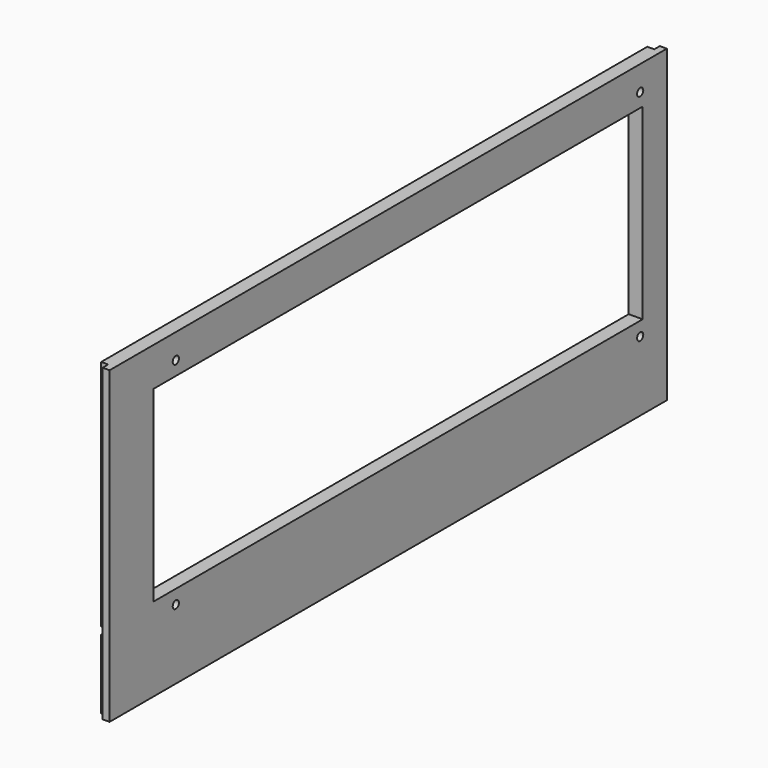
from build123d import *

# Parameters (mm, degrees)
F0_W      = 450
F0_H      = 200
F1_DEPTH  = 9
F2_W      = 4.5
F2_H      = 200
F3_DEPTH  = 4.5
F4_W      = 4.5
F4_H      = 200
F5_DEPTH  = 4.5
F6_W      = 441
F6_H      = 4.5
F7_DEPTH  = 4.5
F8_W      = 395
F8_H      = 121
F9_DEPTH  = 9
F10_R     = 2.5
F11_DEPTH = 9


with BuildPart() as f1:
    # F0 (on Right) → F1 (new body)
    with BuildSketch(Plane.YZ):
        Rectangle(F0_W, F0_H)
    extrude(amount=F1_DEPTH)

    # F2 (on face) → F3 (cut)
    with BuildSketch(Plane.XZ.offset(225)):
        with Locations((2.25, 0)):
            Rectangle(F2_W, F2_H)
    extrude(amount=-F3_DEPTH, mode=Mode.SUBTRACT)

    # F4 (on face) → F5 (cut)
    with BuildSketch(Plane(origin=(0, 225, 0), x_dir=(-1, 0, 0), z_dir=(0, 1, 0))):
        with Locations((-2.25, 0)):
            Rectangle(F4_W, F4_H)
    extrude(amount=-F5_DEPTH, mode=Mode.SUBTRACT)

    # F6 (on face) → F7 (cut)
    with BuildSketch(Plane(origin=(0, 0, 0), x_dir=(0, -1, 0), z_dir=(-1, 0, 0))):
        with Locations((0, -52.75)):
            Rectangle(F6_W, F6_H)
    extrude(amount=-F7_DEPTH, mode=Mode.SUBTRACT)

    # F8 (on face) → F9 (cut, through all)
    with BuildSketch(Plane.YZ.offset(9)):
        with Locations((8, 14.5)):
            Rectangle(F8_W, F8_H)
    extrude(amount=-F9_DEPTH, mode=Mode.SUBTRACT)

    # F10 (on face) → F11 (cut, through all)
    with BuildSketch(Plane.YZ.offset(9)):
        with Locations((203.5, 84)):
            Circle(F10_R)
        with Locations((-171.5, 84)):
            Circle(F10_R)
        with Locations((-171.5, -55)):
            Circle(F10_R)
        with Locations((203.5, -55)):
            Circle(F10_R)
    extrude(amount=-F11_DEPTH, mode=Mode.SUBTRACT)


solid = f1.part
